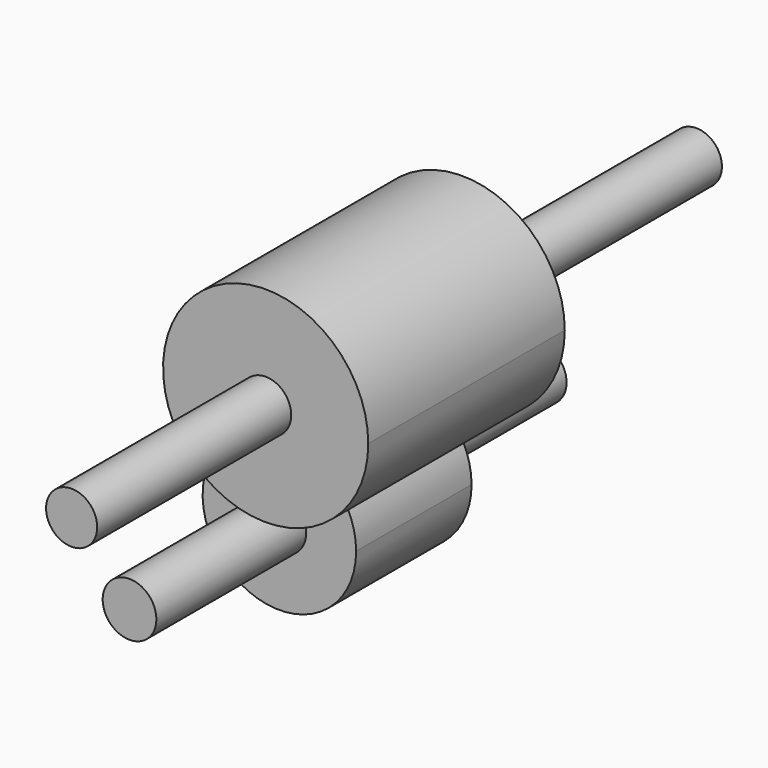
from build123d import *

# Parameters (mm, degrees)
F0_R          = 6.660197
F1_DEPTH      = 35.814
F0_R_2        = 6.35
F2_DEPTH      = 60.96
F3_DEPTH      = 121.158
F3_DEPTH_BACK = 72.644
F4_DEPTH      = 82.296
F4_DEPTH_BACK = 44.958


with BuildPart() as f1:
    # F0 (on Front) → F1 (new body)
    with BuildSketch(Plane.XZ):
        with BuildLine():
            ThreePointArc((-38.25873, 17.655554), (-61.211629, -10.644557), (-26.363024, 0))
            ThreePointArc((-26.363024, 0), (-29.61442, 10.644557), (-38.25873, 17.655554))
        make_face()
        with Locations((-45.413024, 0)):
            Circle(F0_R, mode=Mode.SUBTRACT)
    extrude(amount=F1_DEPTH)

    # F0 (on Front) → F2 (join)
    with BuildSketch(Plane.XZ):
        with BuildLine():
            ThreePointArc((-3.235821, 41.252787), (-42.923582, 62.368147), (-38.25873, 17.655554))
            ThreePointArc((-38.25873, 17.655554), (-14.469974, 20.137428), (-3.235821, 41.252787))
        make_face()
        with Locations((-28.696778, 41.252787)):
            Circle(F0_R_2, mode=Mode.SUBTRACT)
    extrude(amount=F2_DEPTH)

    # F0 (on Front) → F3 (join, two sides)
    with BuildSketch(Plane.XZ) as f3_sk:
        with Locations((-28.696778, 41.252787)):
            Circle(F0_R_2)
    extrude(amount=F3_DEPTH)
    extrude(f3_sk.sketch, amount=-F3_DEPTH_BACK)

    # F0 (on Front) → F4 (join, two sides)
    with BuildSketch(Plane.XZ) as f4_sk:
        with Locations((-45.413024, 0)):
            Circle(F0_R)
    extrude(amount=F4_DEPTH)
    extrude(f4_sk.sketch, amount=-F4_DEPTH_BACK)


solid = f1.part
